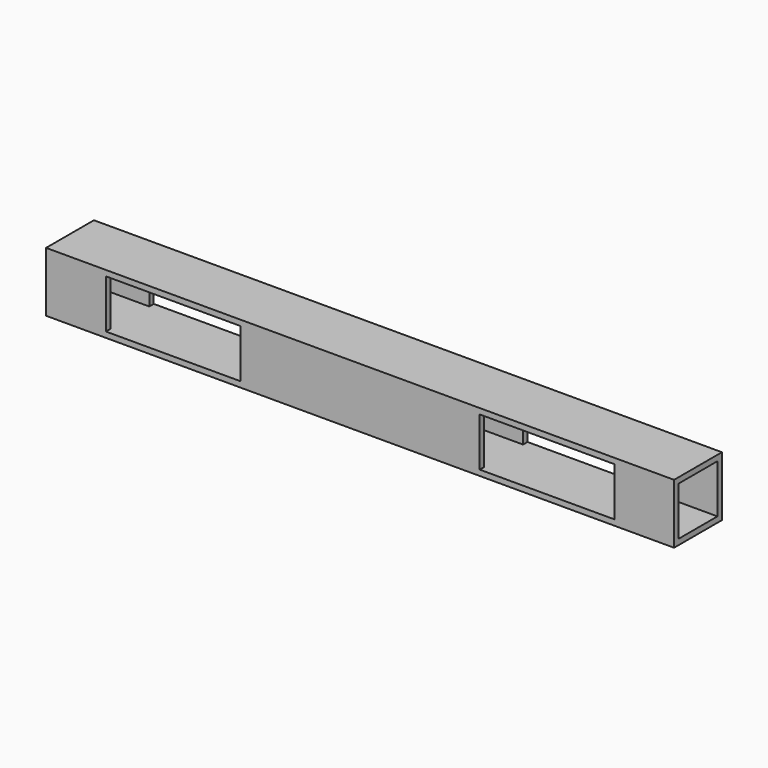
from build123d import *

# Parameters (mm, degrees)
F0_W     = 1066.8
F0_H     = 101.6
F1_DEPTH = 50.8
F2_W     = 82.55
F2_H     = 82.55
F3_DEPTH = 1066.801
F4_W     = 228.6
F4_H     = 82.55
F5_DEPTH = 101.601


with BuildPart() as f1:
    # F0 (on Top) → F1 (new body, symmetric)
    with BuildSketch(Plane.XY):
        Rectangle(F0_W, F0_H)
    extrude(amount=F1_DEPTH, both=True)

    # F2 (on face) → F3 (cut, through all)
    with BuildSketch(Plane.YZ.offset(533.4)):
        Rectangle(F2_W, F2_H)
    extrude(amount=-F3_DEPTH, mode=Mode.SUBTRACT)

    # F4 (on face) → F5 (cut, through all)
    with BuildSketch(Plane.XZ.offset(50.8)):
        with Locations((-317.5, 0)):
            Rectangle(F4_W, F4_H)
        with Locations((317.5, 0)):
            Rectangle(F4_W, F4_H)
    extrude(amount=-F5_DEPTH, mode=Mode.SUBTRACT)


solid = f1.part
